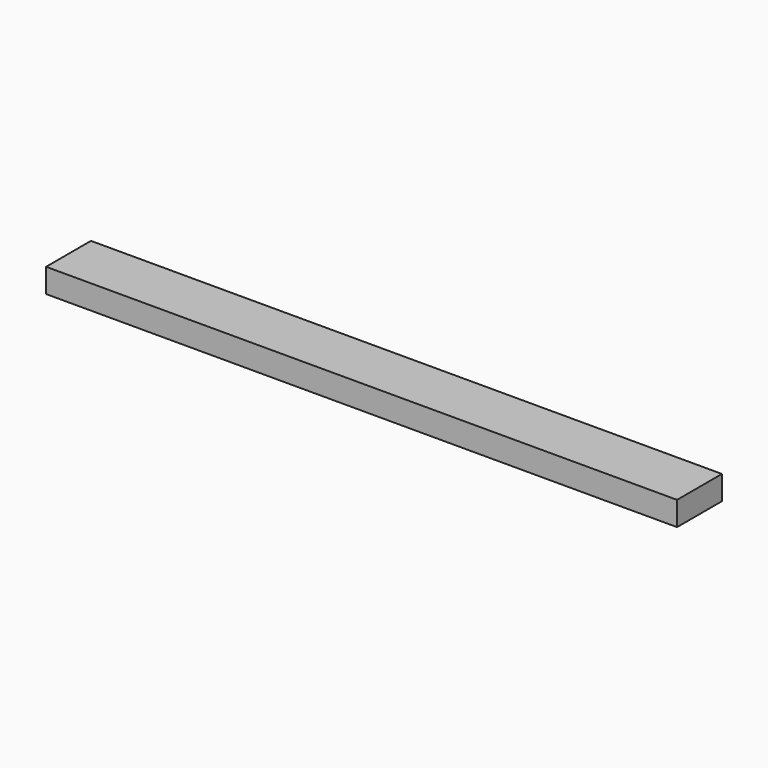
from build123d import *

# Parameters (mm, degrees)
F0_W     = 88.9
F0_H     = 38.1
F1_DEPTH = 1000


with BuildPart() as f1:
    # F0 (on Right) → F1 (new body)
    with BuildSketch(Plane.YZ):
        Rectangle(F0_W, F0_H)
        Rectangle(F0_W, F0_H)
    extrude(amount=F1_DEPTH)


solid = f1.part
